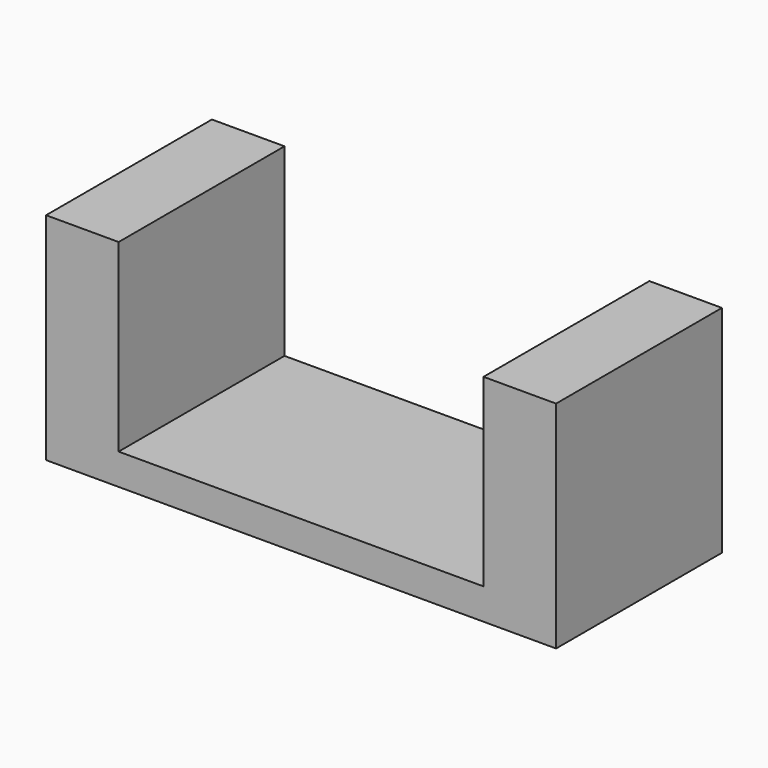
from build123d import *

# Parameters (mm, degrees)
F0_W     = 54.864
F0_H     = 25.4
F1_DEPTH = 3.81
F2_W     = 5.08
F2_H     = 25.4
F3_DEPTH = 22.606
F5_W     = 25.4
F5_H     = 22.606
F5_H_2   = 3.81
F6_DEPTH = 3.81
F4_W     = 25.4
F4_H     = 3.81
F4_H_2   = 22.606
F7_DEPTH = 3.81


with BuildPart() as f1:
    # F0 (on Top) → F1 (new body)
    with BuildSketch(Plane.XY):
        Rectangle(F0_W, F0_H)
    extrude(amount=F1_DEPTH)

    # F2 (on face) → F3 (join)
    with BuildSketch(Plane.XY.offset(3.81)):
        with Locations((-24.892, 0)):
            Rectangle(F2_W, F2_H)
        with Locations((24.892, 0)):
            Rectangle(F2_W, F2_H)
    extrude(amount=F3_DEPTH)

    # F5 (on face) → F6 (join)
    with BuildSketch(Plane.YZ.offset(27.432)):
        with Locations((0, 11.303)):
            Rectangle(F5_W, F5_H)
        with Locations((0, 24.511)):
            Rectangle(F5_W, F5_H_2)
    extrude(amount=F6_DEPTH)

    # F4 (on face) → F7 (join)
    with BuildSketch(Plane(origin=(-27.432, 0, 0), x_dir=(0, -1, 0), z_dir=(-1, 0, 0))):
        with Locations((0, 24.511)):
            Rectangle(F4_W, F4_H)
        with Locations((0, 11.303)):
            Rectangle(F4_W, F4_H_2)
    extrude(amount=F7_DEPTH)


solid = f1.part
